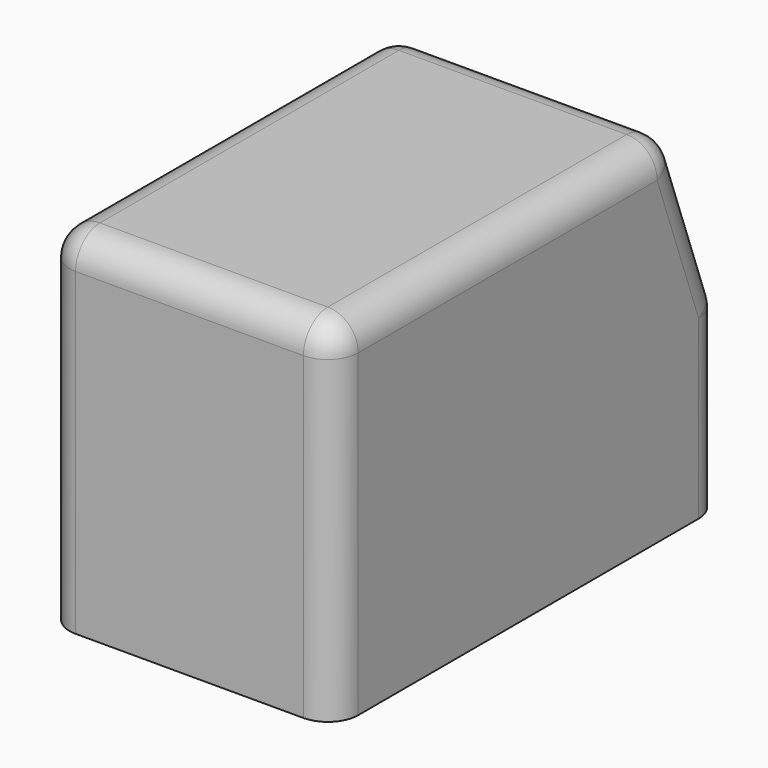
from build123d import *

# Parameters (mm, degrees)
F1_DEPTH = 241.3
F2_R     = 25.4


with BuildPart() as f1:
    # F0 (on Right) → F1 (new body)
    with BuildSketch(Plane.YZ):
        Polygon((203.2, 6.35), (152.4, 146.05), (-203.2, 146.05), (-203.2, -146.05), (203.2, -146.05), align=None)
    extrude(amount=F1_DEPTH)

    # F2
    f2_edges = [f1.edges().sort_by_distance(p)[0] for p in [
        (0, -25.4, 146.05),
        (120.65, -203.2, 146.05),
        (241.3, -25.4, 146.05),
        (120.65, 152.4, 146.05),
        (0, 177.8, 76.2),
        (0, 203.2, -69.85),
        (0, -203.2, 0),
        (241.3, -203.2, 0),
        (241.3, 177.8, 76.2),
        (241.3, 203.2, -69.85),
        (120.65, 203.2, 6.35),
    ]]
    fillet(f2_edges, radius=F2_R)


solid = f1.part
